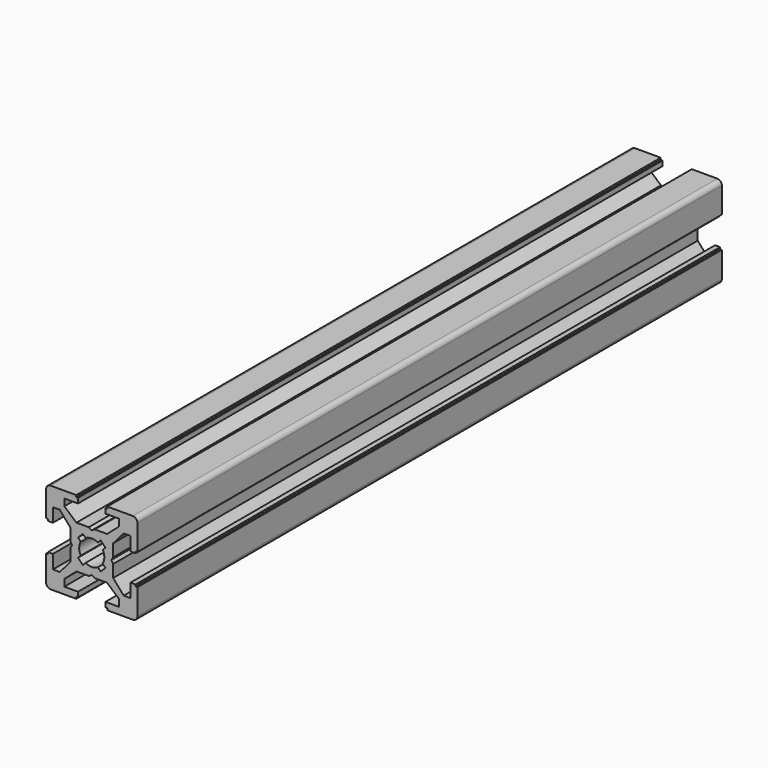
from build123d import *

# Parameters (mm, degrees)
PAD_DEPTH          = 160
POCKET_DEPTH       = 380
POLARPATTERN_COUNT = 4
POCKET001_DEPTH    = 380


with BuildPart() as part:
    # Sketch → Pad (new body)
    with BuildSketch(Plane.XZ):
        with BuildLine():
            Line((-9, 10), (9, 10))
            ThreePointArc((10, 9), (9.707107, 9.707107), (9, 10))
            Line((10, 9), (10, -9))
            ThreePointArc((9, -10), (9.707107, -9.707107), (10, -9))
            Line((9, -10), (-9, -10))
            ThreePointArc((-10, -9), (-9.707107, -9.707107), (-9, -10))
            Line((-10, -9), (-10, 9))
            ThreePointArc((-9, 10), (-9.707107, 9.707107), (-10, 9))
        make_face()
    extrude(amount=PAD_DEPTH)

    # Sketch001 (on Face10 of Pad) → Pocket (cut)
    with BuildSketch(Plane.XZ.offset(160)):
        Polygon((-3.4, 10), (-3.4, 9.6), (-3, 9.6), (-3, 8.5), (-6, 8.5), (-6, 7), (-3.35, 4.7), (-0.65, 4.7), (0, 4.3), (0.65, 4.7), (3.35, 4.7), (6, 7), (6, 8.5), (3, 8.5), (3, 9.6), (3.4, 9.6), (3.4, 10), align=None)
    pocket = extrude(amount=-POCKET_DEPTH, mode=Mode.SUBTRACT)

    # PolarPattern: Pocket ×4 about axis
    polarpattern_axis = Axis((0, -160, 0), (0, -1, 0))
    for i in range(1, POLARPATTERN_COUNT):
        add(pocket.rotate(polarpattern_axis, i * 360 / POLARPATTERN_COUNT), mode=Mode.SUBTRACT)

    # Sketch002 (on Face4 of PolarPattern) → Pocket001 (cut)
    with BuildSketch(Plane.XZ.offset(160)):
        with BuildLine():
            ThreePointArc((1.340499, 2.401159), (0, 2.75), (-1.340499, 2.401159))
            Line((-1.944544, 3.005204), (-1.340499, 2.401159))
            Line((-3.005204, 1.944544), (-1.944544, 3.005204))
            Line((-2.401159, 1.340499), (-3.005204, 1.944544))
            ThreePointArc((-2.401159, 1.340499), (-2.75, 0), (-2.401159, -1.340499))
            Line((-3.005204, -1.944544), (-2.401159, -1.340499))
            Line((-1.944544, -3.005204), (-3.005204, -1.944544))
            Line((-1.340499, -2.401159), (-1.944544, -3.005204))
            ThreePointArc((-1.340499, -2.401159), (0, -2.75), (1.340499, -2.401159))
            Line((1.944544, -3.005204), (1.340499, -2.401159))
            Line((3.005204, -1.944544), (1.944544, -3.005204))
            Line((2.401159, -1.340499), (3.005204, -1.944544))
            ThreePointArc((2.401159, -1.340499), (2.75, 0), (2.401159, 1.340499))
            Line((2.401159, 1.340499), (3.005204, 1.944544))
            Line((3.005204, 1.944544), (1.944544, 3.005204))
            Line((1.944544, 3.005204), (1.340499, 2.401159))
        make_face()
    extrude(amount=-POCKET001_DEPTH, mode=Mode.SUBTRACT)


solid = part.part
